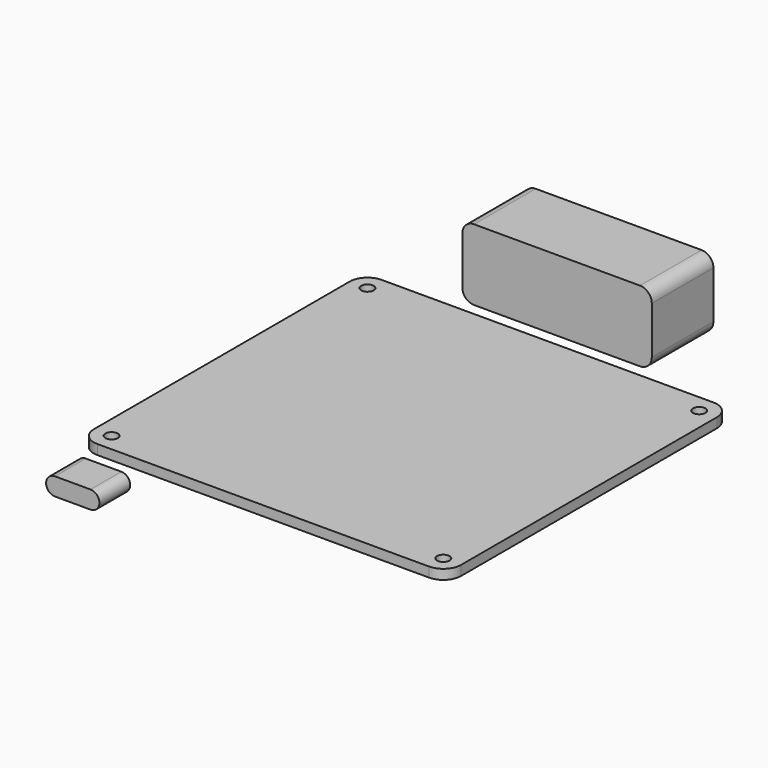
from build123d import *

# Parameters (mm, degrees)
PAD006_DEPTH = 13
PAD007_DEPTH = 6.5
SKETCH005_R  = 1.05
PAD005_DEPTH = 1.65


with BuildPart() as connectorbody:
    # Sketch006 → Pad006 (new body)
    with BuildSketch(Plane.XZ):
        with BuildLine():
            Line((-14, 6), (14, 6))
            ThreePointArc((16, 4), (15.414214, 5.414214), (14, 6))
            Line((16, 4), (16, -4))
            ThreePointArc((14, -6), (15.414214, -5.414214), (16, -4))
            Line((14, -6), (-14, -6))
            ThreePointArc((-16, -4), (-15.414214, -5.414214), (-14, -6))
            Line((-16, -4), (-16, 4))
            ThreePointArc((-14, 6), (-15.414214, 5.414214), (-16, 4))
        make_face()
    extrude(amount=PAD006_DEPTH)


with BuildPart() as connectorbody_1:
    # Body005 placement: moved
    add(connectorbody.part.moved(Location((0, 45, 7.65))))


with BuildPart() as usbbody:
    # Sketch007 → Pad007 (new body)
    with BuildSketch(Plane.XZ):
        with BuildLine():
            ThreePointArc((-3, 1.5), (-4.5, 0), (-3, -1.5))
            Line((-3, -1.5), (3, -1.5))
            ThreePointArc((3, -1.5), (4.5, 0), (3, 1.5))
            Line((-3, 1.5), (3, 1.5))
        make_face()
    extrude(amount=PAD007_DEPTH)


with BuildPart() as usbbody_1:
    # Body006 placement: moved
    add(usbbody.part.moved(Location((-20, -38.7, 3.15))))


with BuildPart() as boardpart:
    # Sketch005 → Pad005 (new body)
    with BuildSketch(Plane.XY):
        with BuildLine():
            Line((-28, 30), (28, 30))
            ThreePointArc((31, 27), (30.12132, 29.12132), (28, 30))
            Line((31, 27), (31, -27))
            ThreePointArc((28, -30), (30.12132, -29.12132), (31, -27))
            Line((28, -30), (-28, -30))
            ThreePointArc((-31, -27), (-30.12132, -29.12132), (-28, -30))
            Line((-31, -27), (-31, 27))
            ThreePointArc((-28, 30), (-30.12132, 29.12132), (-31, 27))
        make_face()
        with Locations((-28, -27)):
            Circle(SKETCH005_R, mode=Mode.SUBTRACT)
        with Locations((28, -27)):
            Circle(SKETCH005_R, mode=Mode.SUBTRACT)
        with Locations((28, 27)):
            Circle(SKETCH005_R, mode=Mode.SUBTRACT)
        with Locations((-28, 27)):
            Circle(SKETCH005_R, mode=Mode.SUBTRACT)
    extrude(amount=PAD005_DEPTH)

    # Fusion: union ConnectorBody, UsbBody
    add(connectorbody_1.part)
    add(usbbody_1.part)


with BuildPart() as boardpart_1:
    # Fusion placement: moved
    add(boardpart.part.moved(Location((0, 0, 4.05))))


solid = boardpart_1.part
